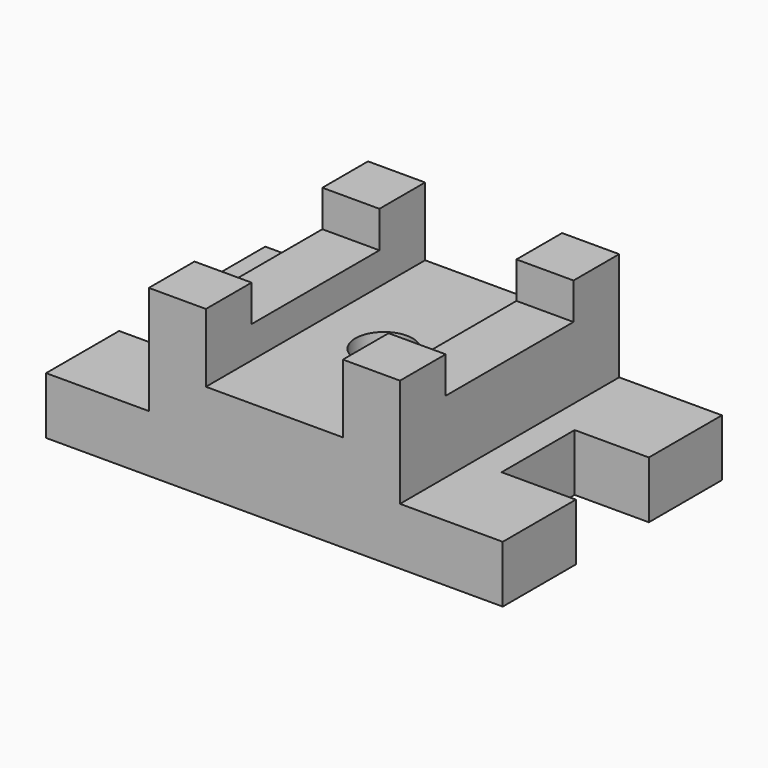
from build123d import *

# Parameters (mm, degrees)
F1_DEPTH = 31.75
F0_R     = 15.875
F2_DEPTH = 53.975
F0_W     = 31.75
F0_H     = 88.9
F3_DEPTH = 71.755
F0_H_2   = 31.75
F4_DEPTH = 92.075


with BuildPart() as f1:
    # F0 (on Top) → F1 (new body)
    with BuildSketch(Plane.XY):
        Polygon((92.958814, -48.118443), (150.108814, -48.118443), (150.108814, 2.681557), (108.833814, 2.681557), (108.833814, 53.481557), (150.108814, 53.481557), (150.108814, 104.281557), (92.958814, 104.281557), (92.958814, 72.531557), (92.958814, -16.368443), align=None)
        Polygon((-103.891186, -48.118443), (-46.741186, -48.118443), (-46.741186, -16.368443), (-46.741186, 72.531557), (-46.741186, 104.281557), (-103.891186, 104.281557), (-103.891186, 53.481557), (-62.616186, 53.481557), (-62.616186, 2.681557), (-103.891186, 2.681557), align=None)
    extrude(amount=F1_DEPTH)



with BuildPart() as f2:
    # F0 (on Top) → F2 (new body)
    with BuildSketch(Plane.XY):
        Polygon((-14.991186, -48.118443), (61.208814, -48.118443), (61.208814, -16.368443), (61.208814, 72.531557), (61.208814, 104.281557), (-14.991186, 104.281557), (-14.991186, 72.531557), (-14.991186, -16.368443), align=None)
        with Locations((23.108814, 28.081557)):
            Circle(F0_R, mode=Mode.SUBTRACT)
    extrude(amount=F2_DEPTH)


with BuildPart() as f1_1:
    add(f1.part)

    add(f2.part)  # F3 merges F2
    # F0 (on Top) → F3 (join)
    with BuildSketch(Plane.XY):
        with Locations((-30.866186, 28.081557)):
            Rectangle(F0_W, F0_H)
        with Locations((77.083814, 28.081557)):
            Rectangle(F0_W, F0_H)
    extrude(amount=F3_DEPTH)

    # F0 (on Top) → F4 (join)
    with BuildSketch(Plane.XY):
        with Locations((-30.866186, 88.406557)):
            Rectangle(F0_W, F0_H_2)
        with Locations((-30.866186, -32.243443)):
            Rectangle(F0_W, F0_H_2)
        with Locations((77.083814, -32.243443)):
            Rectangle(F0_W, F0_H_2)
        with Locations((77.083814, 88.406557)):
            Rectangle(F0_W, F0_H_2)
    extrude(amount=F4_DEPTH)


solid = f1_1.part
